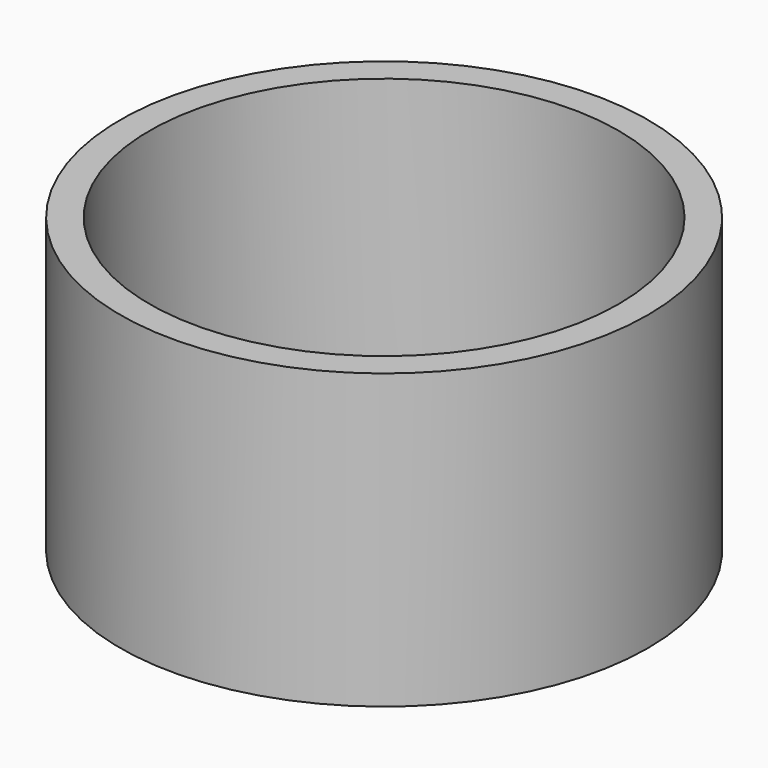
from build123d import *

# Parameters (mm, degrees)
F0_R     = 900
F1_DEPTH = 50
F2_R     = 900
F2_R_2   = 800
F3_DEPTH = 1000


with BuildPart() as f1:
    # F0 (on Top) → F1 (new body, symmetric)
    with BuildSketch(Plane.XY):
        Circle(F0_R)
    extrude(amount=F1_DEPTH, both=True)

    # F2 (on face) → F3 (join)
    with BuildSketch(Plane(origin=(0, 0, -50), x_dir=(1, 0, 0), z_dir=(0, 0, -1))):
        Circle(F2_R)
        Circle(F2_R_2, mode=Mode.SUBTRACT)
    extrude(amount=-F3_DEPTH)


solid = f1.part
